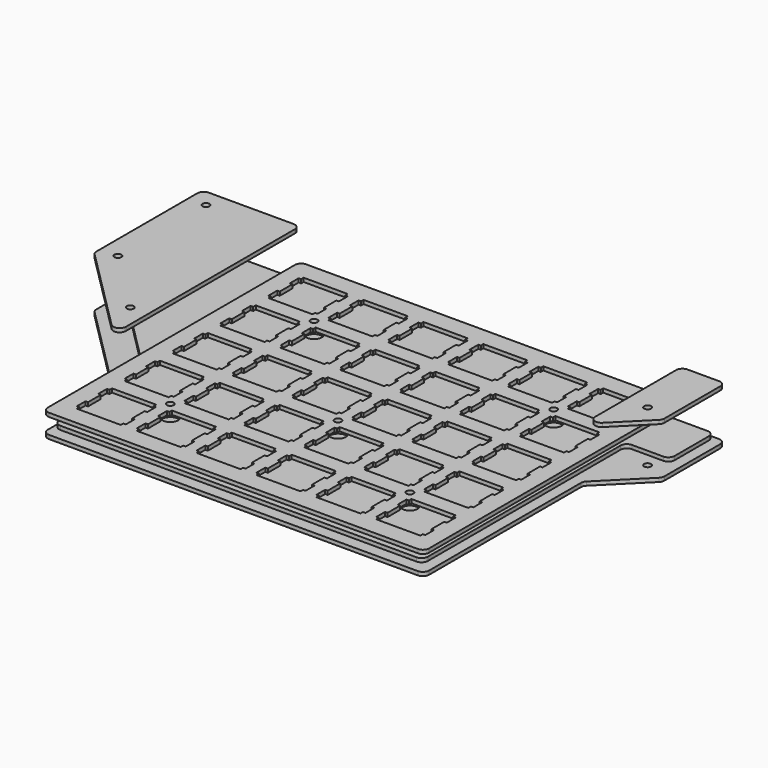
from build123d import *

# Parameters (mm, degrees)
SKETCH001_R                  = 1.1
PAD_DEPTH                    = 1.2
SKETCH002_R                  = 2.5
PAD001_DEPTH                 = 1.2
SKETCH003_R                  = 1.1
PAD002_DEPTH                 = 1.2
POCKET_DEPTH                 = 318.362426
POCKET_LINEARPATTERN_2_DEPTH = 318.362426
POCKET_LINEARPATTERN_3_DEPTH = 318.362426
POCKET_LINEARPATTERN_4_DEPTH = 318.362426
POCKET_LINEARPATTERN_5_DEPTH = 318.362426
POCKET_LINEARPATTERN_6_DEPTH = 318.362426
LINEARPATTERN001_COUNT       = 5
LINEARPATTERN001_PITCH       = 19.05
SKETCH005_R                  = 1.1
PAD003_DEPTH                 = 1.2
SKETCH006_R                  = 1.1
PAD004_DEPTH                 = 1.2


with BuildPart() as bottom:
    # Sketch001 → Pad (new body)
    with BuildSketch(Plane.XY):
        with BuildLine():
            Line((58, -37), (220.25, -37))
            ThreePointArc((222.25, -39), (221.664214, -37.585786), (220.25, -37))
            Line((222.25, -39), (222.25, -61.171573))
            ThreePointArc((221.664214, -62.585786), (222.097759, -61.93694), (222.25, -61.171573))
            Line((221.664214, -62.585786), (208.835786, -75.414214))
            ThreePointArc((208.835786, -75.414214), (208.402241, -76.06306), (208.25, -76.828427))
            Line((208.25, -76.828427), (208.25, -137.2))
            ThreePointArc((206.25, -139.2), (207.664214, -138.614214), (208.25, -137.2))
            Line((206.25, -139.2), (89, -139.2))
            ThreePointArc((87, -137.2), (87.585786, -138.614214), (89, -139.2))
            Line((87, -137.2), (87, -111.828427))
            ThreePointArc((87, -111.828427), (86.847759, -111.06306), (86.414214, -110.414214))
            Line((86.414214, -110.414214), (56.585786, -80.585786))
            ThreePointArc((56, -79.171573), (56.152241, -79.93694), (56.585786, -80.585786))
            Line((56, -79.171573), (56, -39))
            ThreePointArc((58, -37), (56.585786, -37.585786), (56, -39))
        make_face()
        with Locations((81.35, -97.359693)):
            Circle(SKETCH001_R, mode=Mode.SUBTRACT)
        with Locations((109.525, -59.525)):
            Circle(SKETCH001_R, mode=Mode.SUBTRACT)
        with Locations((147.625, -97.625)):
            Circle(SKETCH001_R, mode=Mode.SUBTRACT)
        with Locations((185.725, -59.525)):
            Circle(SKETCH001_R, mode=Mode.SUBTRACT)
        with Locations((215.25, -59.100505)):
            Circle(SKETCH001_R, mode=Mode.SUBTRACT)
        with Locations((185.725, -116.675)):
            Circle(SKETCH001_R, mode=Mode.SUBTRACT)
        with Locations((109.525, -116.675)):
            Circle(SKETCH001_R, mode=Mode.SUBTRACT)
        with Locations((61.65, -77.659693)):
            Circle(SKETCH001_R, mode=Mode.SUBTRACT)
        with Locations((61.65, -42.65)):
            Circle(SKETCH001_R, mode=Mode.SUBTRACT)
    extrude(amount=PAD_DEPTH)


with BuildPart() as pcb:
    # Sketch002 → Pad001 (new body)
    with BuildSketch(Plane.XY):
        with BuildLine():
            Line((66.15, -39), (218.25, -39))
            ThreePointArc((220.25, -41), (219.664214, -39.585786), (218.25, -39))
            Line((220.25, -41), (220.25, -54.600505))
            ThreePointArc((218.25, -56.600505), (219.664214, -56.014719), (220.25, -54.600505))
            Line((208.25, -56.600505), (218.25, -56.600505))
            ThreePointArc((208.25, -56.600505), (206.835786, -57.186292), (206.25, -58.600505))
            Line((206.25, -58.600505), (206.25, -135.2))
            ThreePointArc((204.25, -137.2), (205.664214, -136.614214), (206.25, -135.2))
            Line((204.25, -137.2), (91, -137.2))
            ThreePointArc((89, -135.2), (89.585786, -136.614214), (91, -137.2))
            Line((89, -135.2), (89, -102.302587))
            ThreePointArc((89, -102.302587), (88.847759, -101.53722), (88.414214, -100.888373))
            Line((88.414214, -100.888373), (64.735786, -77.209946))
            ThreePointArc((64.15, -75.795732), (64.302241, -76.561099), (64.735786, -77.209946))
            Line((64.15, -75.795732), (64.15, -41))
            ThreePointArc((66.15, -39), (64.735786, -39.585786), (64.15, -41))
        make_face()
        with Locations((109.525, -59.525)):
            Circle(SKETCH002_R, mode=Mode.SUBTRACT)
        with Locations((147.625, -97.625)):
            Circle(SKETCH002_R, mode=Mode.SUBTRACT)
        with Locations((109.525, -116.675)):
            Circle(SKETCH002_R, mode=Mode.SUBTRACT)
        with Locations((185.725, -116.675)):
            Circle(SKETCH002_R, mode=Mode.SUBTRACT)
        with Locations((185.725, -59.525)):
            Circle(SKETCH002_R, mode=Mode.SUBTRACT)
    extrude(amount=PAD001_DEPTH)


with BuildPart() as pcb_1:
    # Body001 placement: moved
    add(pcb.part.moved(Location((0, 0, 2.4))))


with BuildPart() as plate:
    # Sketch003 → Pad002 (new body)
    with BuildSketch(Plane.XY):
        with BuildLine():
            Line((89, -139.2), (206.25, -139.2))
            ThreePointArc((206.25, -139.2), (207.664214, -138.614214), (208.25, -137.2))
            Line((208.25, -137.2), (208.25, -39))
            ThreePointArc((208.25, -39), (207.664214, -37.585786), (206.25, -37))
            Line((206.25, -37), (89, -37))
            ThreePointArc((89, -37), (87.585786, -37.585786), (87, -39))
            Line((87, -39), (87, -137.2))
            ThreePointArc((87, -137.2), (87.585786, -138.614214), (89, -139.2))
        make_face()
        with Locations((109.525, -59.525)):
            Circle(SKETCH003_R, mode=Mode.SUBTRACT)
        with Locations((109.525, -116.675)):
            Circle(SKETCH003_R, mode=Mode.SUBTRACT)
        with Locations((185.725, -116.675)):
            Circle(SKETCH003_R, mode=Mode.SUBTRACT)
        with Locations((147.625, -97.625)):
            Circle(SKETCH003_R, mode=Mode.SUBTRACT)
        with Locations((185.725, -59.525)):
            Circle(SKETCH003_R, mode=Mode.SUBTRACT)
    extrude(amount=PAD002_DEPTH)

    # Sketch004 (on Face15 of Pad002) → Pocket (cut, through all)
    with BuildSketch(Plane.XY.offset(1.2)):
        Polygon((93, -44), (93, -43), (107, -43), (107, -44), (107.8, -44), (107.8, -47.5), (107, -47.5), (107, -52.5), (107.8, -52.5), (107.8, -56), (107, -56), (107, -57), (93, -57), (93, -56), (92.2, -56), (92.2, -52.5), (93, -52.5), (93, -47.5), (92.2, -47.5), (92.2, -44), align=None)
    pocket = extrude(amount=-POCKET_DEPTH, mode=Mode.SUBTRACT)

    # Sketch004 LinearPattern 2 → Pocket LinearPattern 2 (cut, through all)
    with BuildSketch(Plane(origin=(19.05, 0, 1.2), x_dir=(1, 0, 0), z_dir=(0, 0, 1))):
        Polygon((93, -44), (93, -43), (107, -43), (107, -44), (107.8, -44), (107.8, -47.5), (107, -47.5), (107, -52.5), (107.8, -52.5), (107.8, -56), (107, -56), (107, -57), (93, -57), (93, -56), (92.2, -56), (92.2, -52.5), (93, -52.5), (93, -47.5), (92.2, -47.5), (92.2, -44), align=None)
    pocket_linearpattern_2 = extrude(amount=-POCKET_LINEARPATTERN_2_DEPTH, mode=Mode.SUBTRACT)

    # Sketch004 LinearPattern 3 → Pocket LinearPattern 3 (cut, through all)
    with BuildSketch(Plane(origin=(38.1, 0, 1.2), x_dir=(1, 0, 0), z_dir=(0, 0, 1))):
        Polygon((93, -44), (93, -43), (107, -43), (107, -44), (107.8, -44), (107.8, -47.5), (107, -47.5), (107, -52.5), (107.8, -52.5), (107.8, -56), (107, -56), (107, -57), (93, -57), (93, -56), (92.2, -56), (92.2, -52.5), (93, -52.5), (93, -47.5), (92.2, -47.5), (92.2, -44), align=None)
    pocket_linearpattern_3 = extrude(amount=-POCKET_LINEARPATTERN_3_DEPTH, mode=Mode.SUBTRACT)

    # Sketch004 LinearPattern 4 → Pocket LinearPattern 4 (cut, through all)
    with BuildSketch(Plane(origin=(57.15, 0, 1.2), x_dir=(1, 0, 0), z_dir=(0, 0, 1))):
        Polygon((93, -44), (93, -43), (107, -43), (107, -44), (107.8, -44), (107.8, -47.5), (107, -47.5), (107, -52.5), (107.8, -52.5), (107.8, -56), (107, -56), (107, -57), (93, -57), (93, -56), (92.2, -56), (92.2, -52.5), (93, -52.5), (93, -47.5), (92.2, -47.5), (92.2, -44), align=None)
    pocket_linearpattern_4 = extrude(amount=-POCKET_LINEARPATTERN_4_DEPTH, mode=Mode.SUBTRACT)

    # Sketch004 LinearPattern 5 → Pocket LinearPattern 5 (cut, through all)
    with BuildSketch(Plane(origin=(76.2, 0, 1.2), x_dir=(1, 0, 0), z_dir=(0, 0, 1))):
        Polygon((93, -44), (93, -43), (107, -43), (107, -44), (107.8, -44), (107.8, -47.5), (107, -47.5), (107, -52.5), (107.8, -52.5), (107.8, -56), (107, -56), (107, -57), (93, -57), (93, -56), (92.2, -56), (92.2, -52.5), (93, -52.5), (93, -47.5), (92.2, -47.5), (92.2, -44), align=None)
    pocket_linearpattern_5 = extrude(amount=-POCKET_LINEARPATTERN_5_DEPTH, mode=Mode.SUBTRACT)

    # Sketch004 LinearPattern 6 → Pocket LinearPattern 6 (cut, through all)
    with BuildSketch(Plane(origin=(95.25, 0, 1.2), x_dir=(1, 0, 0), z_dir=(0, 0, 1))):
        Polygon((93, -44), (93, -43), (107, -43), (107, -44), (107.8, -44), (107.8, -47.5), (107, -47.5), (107, -52.5), (107.8, -52.5), (107.8, -56), (107, -56), (107, -57), (93, -57), (93, -56), (92.2, -56), (92.2, -52.5), (93, -52.5), (93, -47.5), (92.2, -47.5), (92.2, -44), align=None)
    pocket_linearpattern_6 = extrude(amount=-POCKET_LINEARPATTERN_6_DEPTH, mode=Mode.SUBTRACT)

    # LinearPattern001: Pocket, Pocket LinearPattern 2, Pocket LinearPattern 3, Pocket LinearPattern 4, Pocket LinearPattern 5, Pocket LinearPattern 6 ×5
    with Locations(*[(0, -i * LINEARPATTERN001_PITCH, 0) for i in range(1, LINEARPATTERN001_COUNT)]):
        add(pocket, mode=Mode.SUBTRACT)
        add(pocket_linearpattern_2, mode=Mode.SUBTRACT)
        add(pocket_linearpattern_3, mode=Mode.SUBTRACT)
        add(pocket_linearpattern_4, mode=Mode.SUBTRACT)
        add(pocket_linearpattern_5, mode=Mode.SUBTRACT)
        add(pocket_linearpattern_6, mode=Mode.SUBTRACT)


with BuildPart() as plate_1:
    # Body002 placement: moved
    add(plate.part.moved(Location((0, 0, 6.2))))


with BuildPart() as obj1:
    # Sketch005 → Pad003 (new body)
    with BuildSketch(Plane.XY):
        with BuildLine():
            Line((56, -39), (56, -79.171573))
            ThreePointArc((56, -79.171573), (56.152241, -79.93694), (56.585786, -80.585786))
            Line((56.585786, -80.585786), (83.585786, -107.585786))
            ThreePointArc((83.585786, -107.585786), (85.765367, -108.019332), (87, -106.171573))
            Line((87, -106.171573), (87, -39))
            ThreePointArc((87, -39), (86.414214, -37.585786), (85, -37))
            Line((85, -37), (58, -37))
            ThreePointArc((58, -37), (56.585786, -37.585786), (56, -39))
        make_face()
        with Locations((61.65, -42.65)):
            Circle(SKETCH005_R, mode=Mode.SUBTRACT)
        with Locations((61.65, -77.659693)):
            Circle(SKETCH005_R, mode=Mode.SUBTRACT)
        with Locations((81.35, -97.359693)):
            Circle(SKETCH005_R, mode=Mode.SUBTRACT)
    extrude(amount=PAD003_DEPTH)


with BuildPart() as obj1_1:
    # Body003 placement: moved
    add(obj1.part.moved(Location((0, 0, 16.2))))


with BuildPart() as cover_jack:
    # Sketch006 → Pad004 (new body)
    with BuildSketch(Plane.XY):
        with BuildLine():
            Line((222.25, -39), (222.25, -61.171573))
            ThreePointArc((221.664214, -62.585786), (222.097759, -61.93694), (222.25, -61.171573))
            Line((221.664214, -62.585786), (211.664214, -72.585786))
            ThreePointArc((208.25, -71.171573), (209.484633, -73.019332), (211.664214, -72.585786))
            Line((208.25, -71.171573), (208.25, -39))
            ThreePointArc((210.25, -37), (208.835786, -37.585786), (208.25, -39))
            Line((210.25, -37), (220.25, -37))
            ThreePointArc((222.25, -39), (221.664214, -37.585786), (220.25, -37))
        make_face()
        with Locations((215.25, -59.100505)):
            Circle(SKETCH006_R, mode=Mode.SUBTRACT)
    extrude(amount=PAD004_DEPTH)


with BuildPart() as cover_jack_1:
    # Body004 placement: moved
    add(cover_jack.part.moved(Location((0, 0, 16.2))))


solid = Compound([bottom.part, pcb_1.part, plate_1.part, obj1_1.part, cover_jack_1.part])
